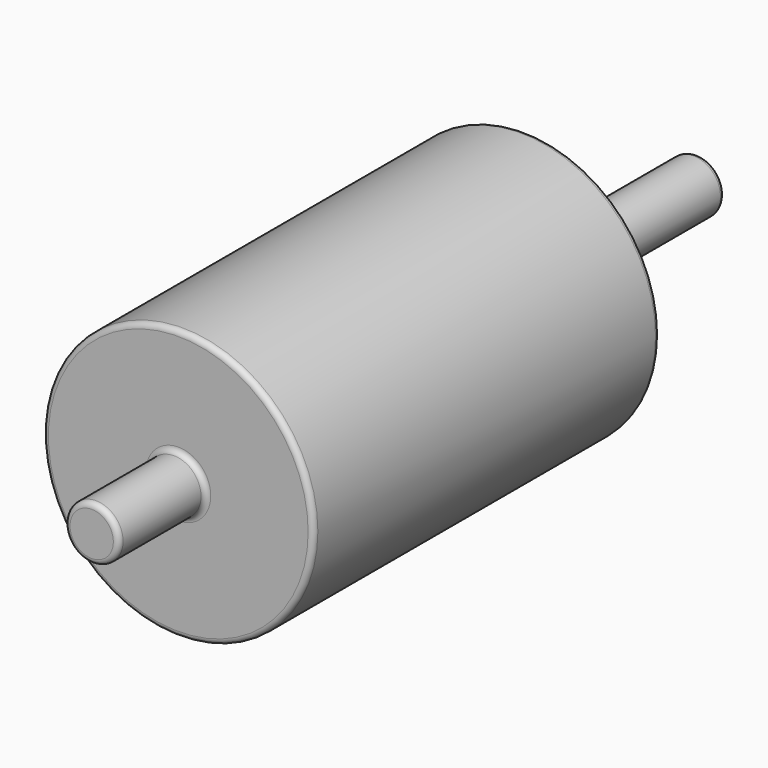
from build123d import *

# Parameters (mm, degrees)
F0_R     = 125
F1_DEPTH = 400
F3_DEPTH = 25
F4_R     = 5
F5_R     = 25
F6_DEPTH = 100
F7_R     = 5
F8_R     = 25
F9_DEPTH = 200
F10_R    = 5


with BuildPart() as f1:
    # F0 (on Front) → F1 (new body)
    with BuildSketch(Plane.XZ):
        Circle(F0_R)
        Circle(F0_R)
    extrude(amount=F1_DEPTH)

    # F0 (on Front) → F3 (join)
    with BuildSketch(Plane.XZ):
        Circle(F0_R)
    extrude(amount=F3_DEPTH)

    # F4
    f4_edges = [f1.edges().sort_by_distance(p)[0] for p in [
        (-125, 0, 0),
        (-125, -400, 0),
    ]]
    fillet(f4_edges, radius=F4_R)

    # F5 (on face) → F6 (join)
    with BuildSketch(Plane.XZ.offset(400)):
        Circle(F5_R)
    extrude(amount=F6_DEPTH)

    # F7
    f7_edges = [f1.edges().sort_by_distance(p)[0] for p in [
        (-25, -400, 0),
        (-25, -500, 0),
    ]]
    fillet(f7_edges, radius=F7_R)

    # F8 (on face) → F9 (join)
    with BuildSketch(Plane(origin=(0, 0, 0), x_dir=(-1, 0, 0), z_dir=(0, 1, 0))):
        Circle(F8_R)
    extrude(amount=F9_DEPTH)

    # F10
    f10_edges = [f1.edges().sort_by_distance(p)[0] for p in [
        (25, 0, 0),
        (25, 200, 0),
    ]]
    fillet(f10_edges, radius=F10_R)


solid = f1.part
